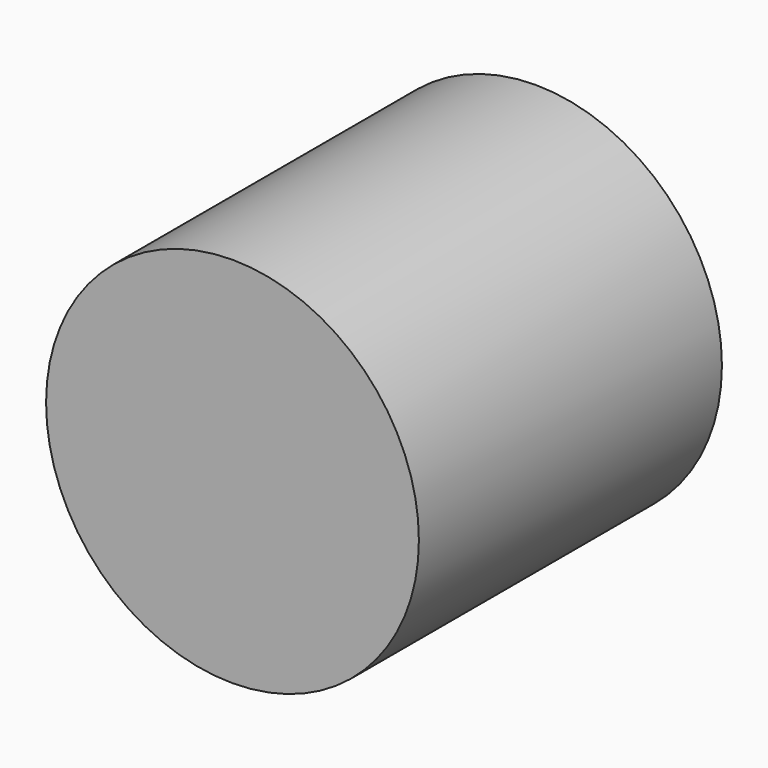
from build123d import *

# Parameters (mm, degrees)
F0_R     = 5.000003
F1_DEPTH = 5.08


with BuildPart() as f1:
    # F0 (on Front) → F1 (new body, symmetric)
    with BuildSketch(Plane.XZ):
        with Locations((0, 8.302005)):
            Circle(F0_R)
    extrude(amount=F1_DEPTH, both=True)


with BuildPart() as f1_1:
    # F2: moved
    add(f1.part.moved(Location((23.114, 41.402, 12.192))))


solid = f1_1.part
